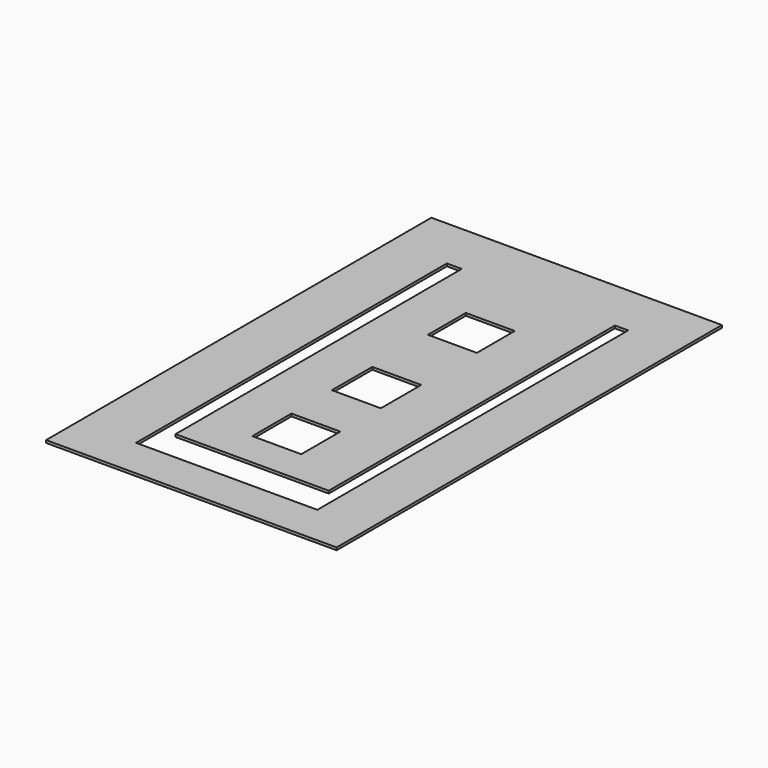
from build123d import *

# Parameters (mm, degrees)
F0_W     = 56.083198
F0_H     = 92.964001
F0_W_2   = 9.448801
F0_H_2   = 9.448801
F0_H_3   = 9.7536
F0_H_4   = 9.144
F1_DEPTH = 0.5


with BuildPart() as f1:
    # F0 (on Top) → F1 (new body)
    with BuildSketch(Plane.XY):
        with Locations((-0.609601, 1.219198)):
            Rectangle(F0_W, F0_H)
        with Locations((-0.457199, -20.1168)):
            Rectangle(F0_W_2, F0_H_2, mode=Mode.SUBTRACT)
        with Locations((-0.457199, -0.762)):
            Rectangle(F0_W_2, F0_H_3, mode=Mode.SUBTRACT)
        Polygon((-17.5, -37.5), (-17.5, 37.5), (-14.630401, 37.5), (-14.630401, -31.546801), (14.935198, -31.546801), (14.935198, 37.5), (17.5, 37.5), (17.5, -37.5), align=None, mode=Mode.SUBTRACT)
        with Locations((-0.457199, 22.098001)):
            Rectangle(F0_W_2, F0_H_4, mode=Mode.SUBTRACT)
    extrude(amount=F1_DEPTH)


solid = f1.part
